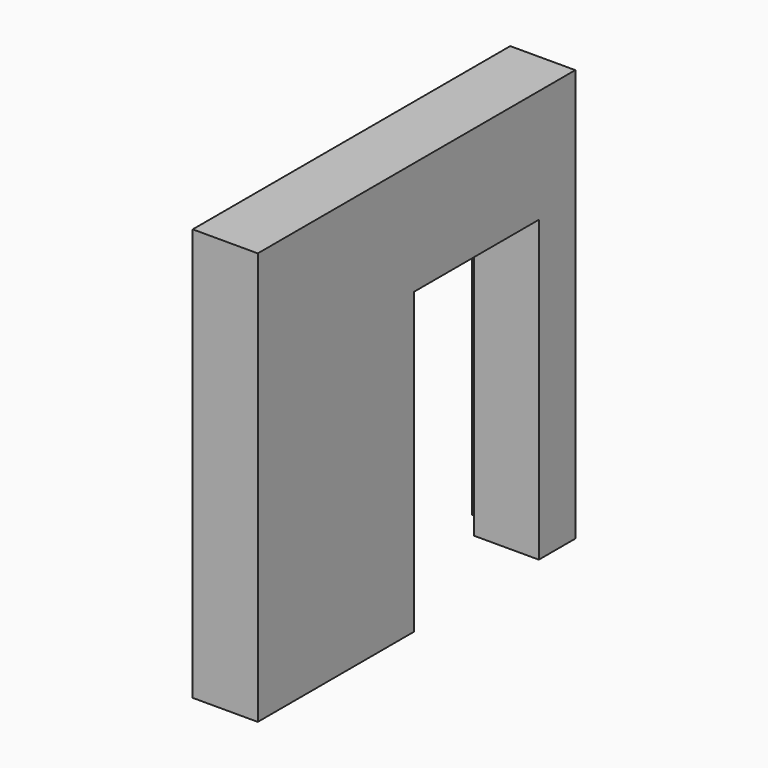
from build123d import *

# Parameters (mm, degrees)
F0_W      = 500
F0_H      = 3050
F1_DEPTH  = 3170
F3_W      = 1200
F3_H      = 2300
F4_DEPTH  = 500
F7_W      = 310
F7_H      = 330
F7_W_2    = 1530
F7_H_2    = 670
F8_DEPTH  = 475
F9_W      = 1430
F9_H      = 2150
F9_H_2    = 670
F10_DEPTH = 475.001
F12_DEPTH = 475
F13_W     = 330
F13_H     = 2170
F13_W_2   = 1545
F13_H_2   = 680
F13_W_3   = 1445
F14_DEPTH = 20


with BuildPart() as f1:
    # F0 (on Top) → F1 (new body)
    with BuildSketch(Plane.XY):
        with Locations((-250, 1525)):
            Rectangle(F0_W, F0_H)
    extrude(amount=F1_DEPTH)

    # F3 (on face) → F4 (cut, through all)
    with BuildSketch(Plane(origin=(-500, 0, 0), x_dir=(0, -1, 0), z_dir=(-1, 0, 0))):
        with Locations((-2100, 1150)):
            Rectangle(F3_W, F3_H)
    extrude(amount=-F4_DEPTH, mode=Mode.SUBTRACT)

    # F7 (on offset) → F8 (cut, through all)
    with BuildSketch(Plane.YZ.offset(-25)):
        with Locations((2875, 315)):
            Rectangle(F7_W, F7_H)
        with Locations((2875, 665)):
            Rectangle(F7_W, F7_H)
        with Locations((2875, 1015)):
            Rectangle(F7_W, F7_H)
        with Locations((2875, 1365)):
            Rectangle(F7_W, F7_H)
        with Locations((2875, 1715)):
            Rectangle(F7_W, F7_H)
        with Locations((2875, 2065)):
            Rectangle(F7_W, F7_H)
        with Locations((2265, 2735)):
            Rectangle(F7_W_2, F7_H_2)
    extrude(amount=-F8_DEPTH, mode=Mode.SUBTRACT)

    # F9 (on offset) → F10 (cut, through all)
    with BuildSketch(Plane.YZ.offset(-25)):
        with Locations((765, 1225)):
            Rectangle(F9_W, F9_H)
        with Locations((765, 2735)):
            Rectangle(F9_W, F9_H_2)
    extrude(amount=-F10_DEPTH, mode=Mode.SUBTRACT)

    # F11 (on face) → F12 (join, through all)
    with BuildSketch(Plane(origin=(-25, 0, 0), x_dir=(0, -1, 0), z_dir=(-1, 0, 0))):
        Polygon((-1070, 420), (-1480, 420), (-1480, 400), (-480, 400), (-480, 150), (-460, 150), (-460, 420), (-1050, 420), align=None)
        Polygon((-1070, 690), (-1070, 420), (-1050, 420), (-1050, 670), (-50, 670), (-50, 690), (-460, 690), (-480, 690), align=None)
        Polygon((-480, 940), (-480, 690), (-460, 690), (-460, 960), (-1050, 960), (-1070, 960), (-1480, 960), (-1480, 940), align=None)
        Polygon((-1070, 960), (-1050, 960), (-1050, 1210), (-50, 1210), (-50, 1230), (-460, 1230), (-480, 1230), (-1070, 1230), align=None)
        Polygon((-480, 1480), (-480, 1230), (-460, 1230), (-460, 1500), (-1050, 1500), (-1070, 1500), (-1480, 1500), (-1480, 1480), align=None)
        Polygon((-1070, 1500), (-1050, 1500), (-1050, 1750), (-50, 1750), (-50, 1770), (-460, 1770), (-480, 1770), (-1070, 1770), align=None)
        Polygon((-480, 2020), (-480, 1770), (-460, 1770), (-460, 2040), (-1480, 2040), (-1480, 2020), align=None)
    extrude(amount=F12_DEPTH)


with BuildPart() as f14:
    # F13 (on face) → F14 (new body)
    with BuildSketch(Plane(origin=(-500, 0, 0), x_dir=(0, -1, 0), z_dir=(-1, 0, 0))):
        with Locations((-2875, 1215)):
            Rectangle(F13_W, F13_H)
        with Locations((-2267.5, 2730)):
            Rectangle(F13_W_2, F13_H_2)
        with Locations((-762.5, 2730)):
            Rectangle(F13_W_3, F13_H_2)
    extrude(amount=F14_DEPTH)


solid = Compound([f1.part, f14.part])
